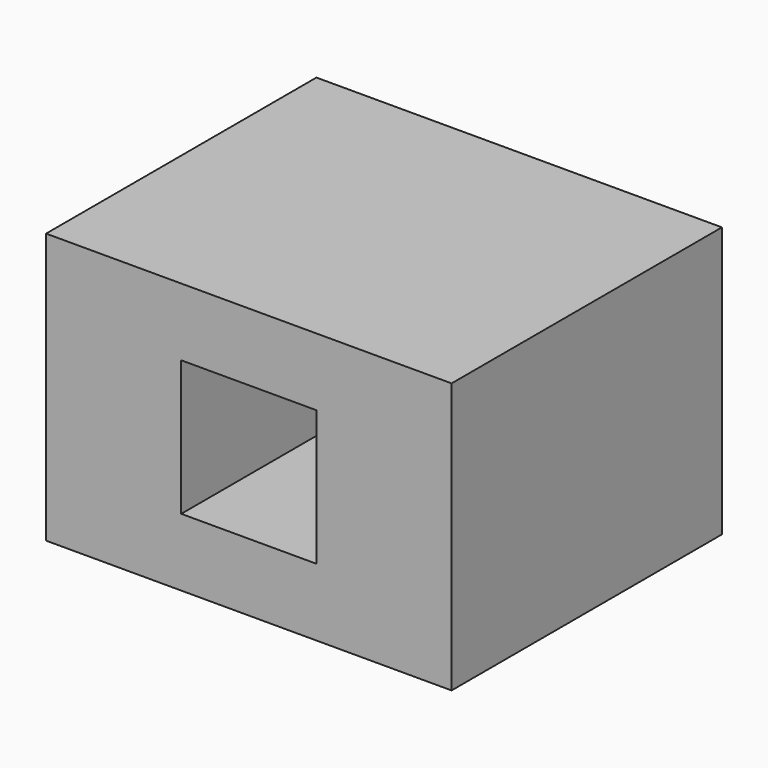
from build123d import *

# Parameters (mm, degrees)
F0_W     = 152.4
F0_H     = 101.6
F1_DEPTH = 127
F3_DEPTH = 127


with BuildPart() as f1:
    # F0 (on Front) → F1 (new body)
    with BuildSketch(Plane.XZ):
        with Locations((8.600309, -1.323304)):
            Rectangle(F0_W, F0_H)
    extrude(amount=F1_DEPTH)

    # F2 (on face) → F3 (cut)
    with BuildSketch(Plane.XZ.offset(127)):
        Polygon((34.000309, 24.076696), (3.260987, 24.076696), (-16.799691, 24.076696), (-16.799691, -1.323304), (-16.799691, -26.723304), (6.178255, -26.723304), (34.000309, -26.723304), (34.000309, -1.323304), align=None)
    extrude(amount=-F3_DEPTH, mode=Mode.SUBTRACT)


solid = f1.part
